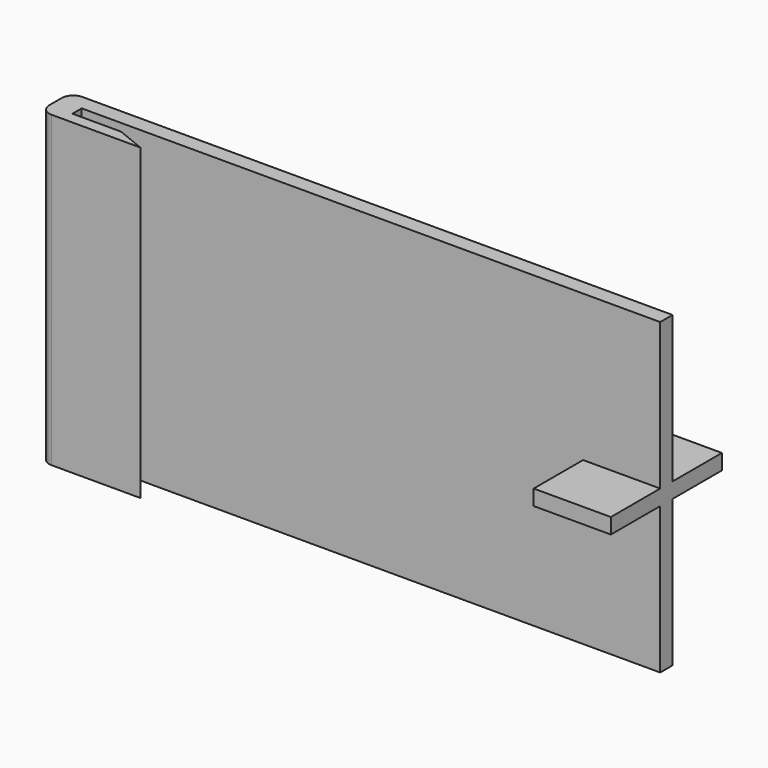
from build123d import *

# Parameters (mm, degrees)
F1_DEPTH = 20
F2_W     = 2
F2_H     = 18.9999999525
F2_W_2   = 8
F2_H_2   = 2
F2_H_3   = 19.0000000475
F3_DEPTH = 10
F4_R     = 1.5


with BuildPart() as f1:
    # F0 (on Top) → F1 (new body, symmetric)
    with BuildSketch(Plane.XY):
        Polygon((0, -1.5), (0, 0), (65, 0), (65, 2), (-3, 2), (-3, -3), (10, -3), (6.3068126328, -1.5), align=None)
    extrude(amount=F1_DEPTH, both=True)

    # F2 (on face) → F3 (join)
    with BuildSketch(Plane.YZ.offset(65)):
        with Locations((1, -10.5000000237)):
            Rectangle(F2_W, F2_H)
        with Locations((-4, -4.75e-08)):
            Rectangle(F2_W_2, F2_H_2)
        with Locations((1, -4.75e-08)):
            Rectangle(F2_W, F2_H_2)
        with Locations((6, -4.75e-08)):
            Rectangle(F2_W_2, F2_H_2)
        with Locations((1, 10.4999999763)):
            Rectangle(F2_W, F2_H_3)
    extrude(amount=F3_DEPTH)

    # F4
    f4_edges = [f1.edges().sort_by_distance(p)[0] for p in [
        (-3, -3, 0),
        (-3, 2, 0),
    ]]
    fillet(f4_edges, radius=F4_R)


solid = f1.part
